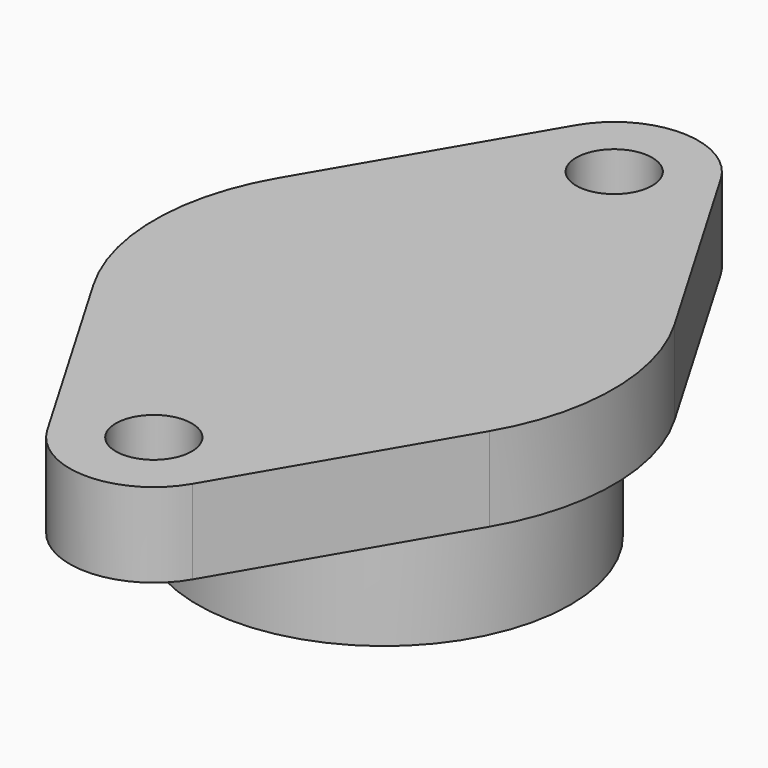
from build123d import *

# Parameters (mm, degrees)
F0_R      = 34.925
F0_R_2    = 28.575
F1_DEPTH  = 22.352
F2_R      = 7.112
F2_R_2    = 34.925
F3_DEPTH  = 15.748
F5_R      = 23.876
F6_DEPTH  = 3.048
F7_DEPTH  = 19.304
F8_DEPTH  = 15.748
F9_DEPTH  = 12.7
F11_DEPTH = 54.10831


with BuildPart() as f1:
    # F0 (on Top) → F1 (new body)
    with BuildSketch(Plane.XY):
        Circle(F0_R)
        Circle(F0_R_2, mode=Mode.SUBTRACT)
        Circle(F0_R_2)
    extrude(amount=-F1_DEPTH)

    # F5 (on offset) → F6 (cut)
    with BuildSketch(Plane(origin=(0, 0, -22.352), x_dir=(1, 0, 0), z_dir=(0, 0, -1))):
        Circle(F5_R)
    extrude(amount=-F6_DEPTH, mode=Mode.SUBTRACT)

    # F0 (on Top) → F7 (cut)
    with BuildSketch(Plane.XY):
        Circle(F0_R_2)
    extrude(amount=-F7_DEPTH, mode=Mode.SUBTRACT)



with BuildPart() as f3:
    # F2 (on face) → F3 (new body)
    with BuildSketch(Plane.XY):
        with BuildLine():
            Line((-37.057366384, -21.6654811321), (-13.5950101527, -61.7962830189))
            ThreePointArc((-13.5950101527, -61.7962830189), (0, -69.596), (13.5950101527, -61.7962830189))
            Line((13.5950101527, -61.7962830189), (37.057366384, -21.6654811321))
            ThreePointArc((37.057366384, -21.6654811321), (42.926, 0), (37.057366384, 21.6654811321))
            Line((37.057366384, 21.6654811321), (13.5950101527, 61.7962830189))
            ThreePointArc((13.5950101527, 61.7962830189), (0, 69.596), (-13.5950101527, 61.7962830189))
            Line((-13.5950101527, 61.7962830189), (-37.057366384, 21.6654811321))
            ThreePointArc((-37.057366384, 21.6654811321), (-42.926, 0), (-37.057366384, -21.6654811321))
        make_face()
        with Locations((0, -53.848)):
            Circle(F2_R, mode=Mode.SUBTRACT)
        Circle(F2_R_2, mode=Mode.SUBTRACT)
        with Locations((0, 53.848)):
            Circle(F2_R, mode=Mode.SUBTRACT)
    extrude(amount=F3_DEPTH)


with BuildPart() as f1_1:
    add(f1.part)

    add(f3.part)  # F8 merges F3
    # F0 (on Top) → F8 (join)
    with BuildSketch(Plane.XY):
        Circle(F0_R)
        Circle(F0_R_2, mode=Mode.SUBTRACT)
        Circle(F0_R_2)
    extrude(amount=F8_DEPTH)

    # F0 (on Top) → F9 (cut)
    with BuildSketch(Plane.XY):
        Circle(F0_R_2)
    extrude(amount=F9_DEPTH, mode=Mode.SUBTRACT)

    # F10 (on Right) → F11 (cut)
    with BuildSketch(Plane.YZ):
        with BuildLine():
            ThreePointArc((9.652, 3.048), (14.478, 7.874), (9.652, 12.7))
            Line((9.652, 12.7), (-9.652, 12.7))
            ThreePointArc((-9.652, 12.7), (-14.478, 7.874), (-9.652, 3.048))
            Line((-9.652, 3.048), (9.652, 3.048))
        make_face()
    extrude(amount=-F11_DEPTH, mode=Mode.SUBTRACT)


solid = f1_1.part
